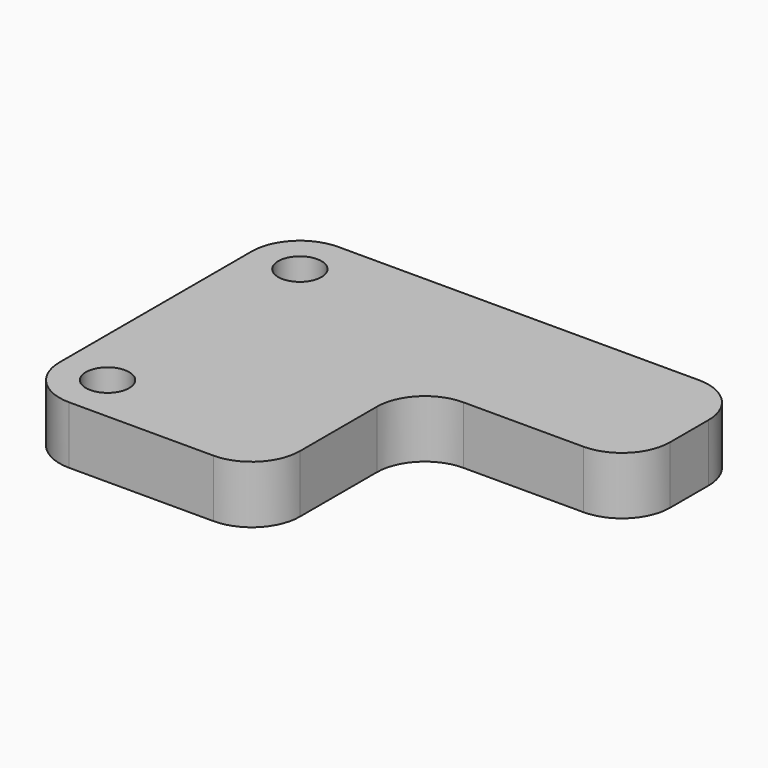
from build123d import *

# Parameters (mm, degrees)
F0_R     = 4.5
F1_DEPTH = 12


with BuildPart() as f1:
    # F0 (on Top) → F1 (new body)
    with BuildSketch(Plane.XY):
        with BuildLine():
            ThreePointArc((0, -10), (2.928932, -2.928932), (10, 0))
            Line((10, 0), (35, 0))
            ThreePointArc((35, 0), (42.071068, 2.928932), (45, 10))
            Line((45, 10), (45, 20))
            ThreePointArc((45, 20), (42.071068, 27.071068), (35, 30))
            Line((35, 30), (-40, 30))
            ThreePointArc((-40, 30), (-47.071068, 27.071068), (-50, 20))
            Line((-50, 20), (-50, -30))
            ThreePointArc((-50, -30), (-47.071068, -37.071068), (-40, -40))
            Line((-40, -40), (-10, -40))
            ThreePointArc((-10, -40), (-2.928932, -37.071068), (0, -30))
            Line((0, -30), (0, -10))
        make_face()
        with Locations((-40, -30)):
            Circle(F0_R, mode=Mode.SUBTRACT)
        with Locations((-40, 20)):
            Circle(F0_R, mode=Mode.SUBTRACT)
    extrude(amount=F1_DEPTH)


solid = f1.part
